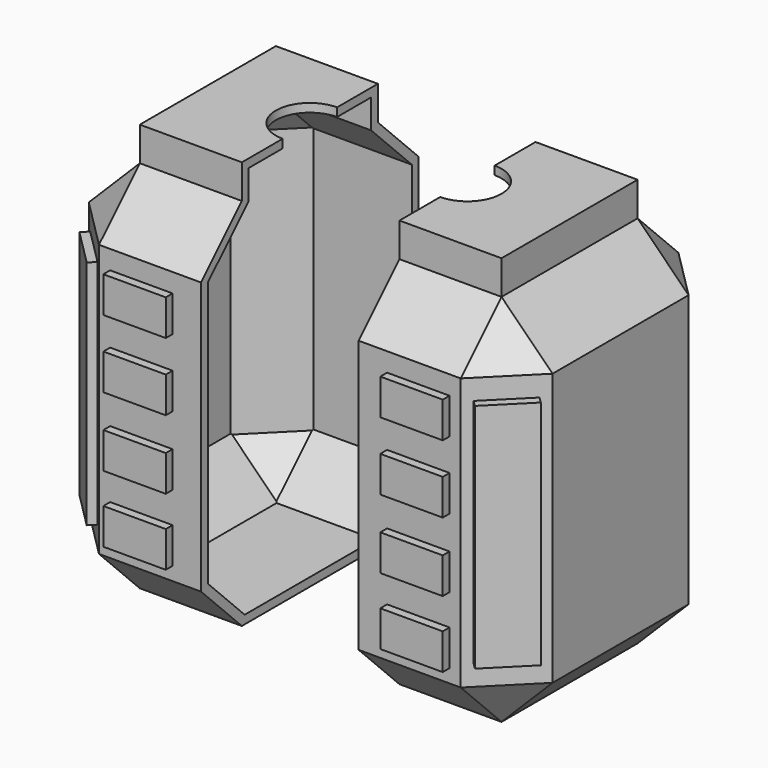
from build123d import *

# Parameters (mm, degrees)
F0_W      = 90
F0_H      = 110
F1_DEPTH  = 80
F2_SIZE   = 15
F3_DEPTH  = 10
F5_W      = 18.3519501972
F5_H      = 10.5426709763
F5_W_2    = 19.3614046841
F6_DEPTH  = 2.5
F7_W      = 15.2132034356
F7_H      = 68
F8_DEPTH  = 2.5
F9_W      = 15.2132034356
F9_H      = 68
F10_DEPTH = 2.5
F12_DEPTH = 157.1
F13_T     = -2.5
F15_R     = 10
F16_DEPTH = 25
F17_SCALE = 0.6


with BuildPart() as f1:
    # F0 (on Front) → F1 (new body)
    with BuildSketch(Plane.XZ):
        with Locations((-6.6351997253, -23.9102316598)):
            Rectangle(F0_W, F0_H)
    extrude(amount=F1_DEPTH)

    # F2
    f2_edges = [f1.edges().sort_by_distance(p)[0] for p in [
        (-51.6352, 0, -23.910232),
        (-51.6352, -40, 31.089768),
        (-6.6352, 0, 31.089768),
        (38.3648, 0, -23.910232),
        (-51.6352, -40, -78.910232),
        (-6.6352, 0, -78.910232),
        (-51.6352, -80, -23.910232),
        (-6.6352, -80, -78.910232),
        (38.3648, -80, -23.910232),
        (-6.6352, -80, 31.089768),
        (38.3648, -40, 31.089768),
        (38.3648, -40, -78.910232),
    ]]
    chamfer(f2_edges, length=F2_SIZE)

    # F3 (add): a face of the model
    f3_faces = [f1.faces().sort_by_distance(p)[0] for p in [
        (-6.6351997253, -40, 31.0897683402),
    ]]
    extrude(f3_faces, amount=F3_DEPTH)

    # F5 (on face) → F6 (join)
    with BuildSketch(Plane.XZ.offset(80)):
        with Locations((-24.1759750986, 5.2713354881)):
            Rectangle(F5_W, F5_H)
        with Locations((9.680702342, 5.2713354881)):
            Rectangle(F5_W_2, F5_H)
        with Locations((-24.1759750986, -14.7191806457)):
            Rectangle(F5_W, F5_H)
        with Locations((9.680702342, -14.7191806457)):
            Rectangle(F5_W_2, F5_H)
        with Locations((-24.1759750986, -35.0374097685)):
            Rectangle(F5_W, F5_H)
        with Locations((9.680702342, -35.0374097685)):
            Rectangle(F5_W_2, F5_H)
        with Locations((-24.1759750986, -54.700208945)):
            Rectangle(F5_W, F5_H)
        with Locations((9.680702342, -54.700208945)):
            Rectangle(F5_W_2, F5_H)
    extrude(amount=F6_DEPTH)

    # F7 (on face) → F8 (join)
    with BuildSketch(Plane(origin=(51.6824001374, -51.6824001374, 0), x_dir=(0.7071067812, 0.7071067812, 0), z_dir=(0.7071067812, -0.7071067812, 0))):
        with Locations((-29.4405320618, -23.9102316598)):
            Rectangle(F7_W, F7_H)
    extrude(amount=F8_DEPTH)

    # F9 (on face) → F10 (join)
    with BuildSketch(Plane(origin=(-58.3175998626, -58.3175998626, 0), x_dir=(0.7071067812, -0.7071067812, 0), z_dir=(-0.7071067812, -0.7071067812, 0))):
        with Locations((20.0569426212, -23.9102316598)):
            Rectangle(F9_W, F9_H)
    extrude(amount=F10_DEPTH)

    # F11 (on face) → F12 (cut)
    with BuildSketch(Plane.XY.offset(41.0897683402)):
        Polygon((-6.6351997253, 15.4799222946), (-6.6351997253, -15), (-6.6351997253, -91.4401262999), (68.2357624173, -91.4401262999), (68.2357624173, 15.4799222946), align=None)
    extrude(amount=-F12_DEPTH, mode=Mode.SUBTRACT)

    # F13
    f13_openings = [f1.faces().sort_by_distance(p)[0] for p in [
        (-6.6352, -40, -20.520401),
    ]]
    offset(amount=F13_T, openings=f13_openings, kind=Kind.INTERSECTION)

    # F15 (on face) → F16 (cut)
    with BuildSketch(Plane.XY.offset(41.0897683402)):
        with Locations((-6.6351997253, -40)):
            Circle(F15_R)
    extrude(amount=-F16_DEPTH, mode=Mode.SUBTRACT)


with BuildPart() as f1_1:
    # F17: moved
    add(f1.part.scale(F17_SCALE))


with BuildPart() as f18_1:
    # F18: instance of F1
    add(f1_1.part.mirror(Plane(origin=(-3.9811198352, -24, -13.7571615746), x_dir=(0, 1, 0), z_dir=(1, 0, 0))))


with BuildPart() as f18_1_1:
    # F19: moved
    add(f18_1.part.moved(Location((27.8, 0, 0))))


solid = Compound([f1_1.part, f18_1_1.part])
